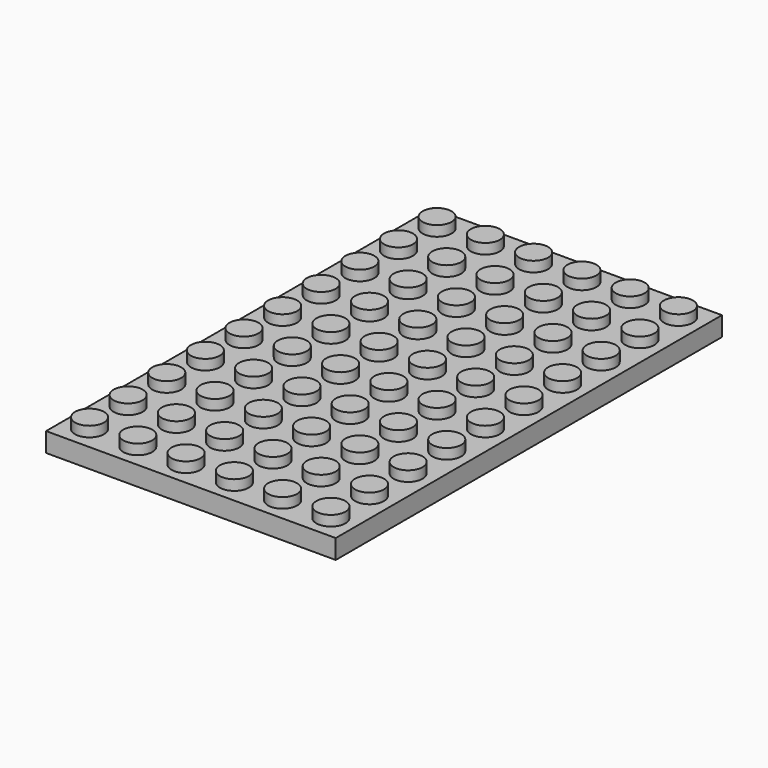
from build123d import *

# Parameters (mm, degrees)
F1_DEPTH  = 8
F3_W      = 8
F3_H      = 8
F3_R      = 2.4
F4_DEPTH  = 1.7
F5_R      = 2.4
F6_DEPTH  = 1.7
F17_W     = 169.7410433292
F17_H     = 17.4022987485
F18_DEPTH = 16.002
F19_W     = 57.4434348602
F19_H     = 35.758164084
F20_DEPTH = 48.006


with BuildPart() as f1:
    # F0 (on Front) → F1 (new body)
    with BuildSketch(Plane.XZ):
        Polygon((-2.4, 3.2), (-4, 3.2), (-4, 0), (4, 0), (4, 3.2), (2.4, 3.2), (2.4, 4.9), (-2.4, 4.9), align=None)
    extrude(amount=F1_DEPTH)

    # F3 (on plane+point) → F4 (cut, through all)
    with BuildSketch(Plane.XY.offset(4.9)):
        with Locations((0, -4)):
            Rectangle(F3_W, F3_H)
        with Locations((0, -4)):
            Circle(F3_R, mode=Mode.SUBTRACT)
    extrude(amount=-F4_DEPTH, mode=Mode.SUBTRACT)

    # F5 (on Top) → F6 (cut)
    with BuildSketch(Plane.XY):
        with Locations((0, -4)):
            Circle(F5_R)
    extrude(amount=F6_DEPTH, mode=Mode.SUBTRACT)

    # F8: F1 across plane


with BuildPart() as f1_1:
    add(f1.part)
    add(f1.part.mirror(Plane.YZ.offset(4)))

    # F10: F1 across plane


with BuildPart() as f1_2:
    add(f1_1.part)
    add(f1_1.part.mirror(Plane.YZ.offset(12)))

    # F12: F1 across plane


with BuildPart() as f1_3:
    add(f1_2.part)
    add(f1_2.part.mirror(Plane.YZ.offset(28)))

    # F13: F1 across face


with BuildPart() as f1_4:
    add(f1_3.part)
    add(f1_3.part.mirror(Plane(origin=(28, -8, 1.6), x_dir=(1, 0, 0), z_dir=(0, -1, 0))))

    # F14: F1 across face


with BuildPart() as f1_5:
    add(f1_4.part)
    add(f1_4.part.mirror(Plane(origin=(28, -16, 1.6), x_dir=(1, 0, 0), z_dir=(0, -1, 0))))

    # F15: F1 across face


with BuildPart() as f1_6:
    add(f1_5.part)
    add(f1_5.part.mirror(Plane(origin=(28, -32, 1.6), x_dir=(1, 0, 0), z_dir=(0, -1, 0))))

    # F16: F1 across face


with BuildPart() as f1_7:
    add(f1_6.part)
    add(f1_6.part.mirror(Plane(origin=(28, -64, 1.6), x_dir=(1, 0, 0), z_dir=(0, -1, 0))))

    # F17 (on face) → F18 (cut)
    with BuildSketch(Plane.YZ.offset(60)):
        with Locations((-64, 0)):
            Rectangle(F17_W, F17_H)
    extrude(amount=-F18_DEPTH, mode=Mode.SUBTRACT)

    # F19 (on face) → F20 (cut)
    with BuildSketch(Plane.XZ.offset(128)):
        with Locations((19.999, 3.2)):
            Rectangle(F19_W, F19_H)
    extrude(amount=-F20_DEPTH, mode=Mode.SUBTRACT)


solid = f1_7.part
